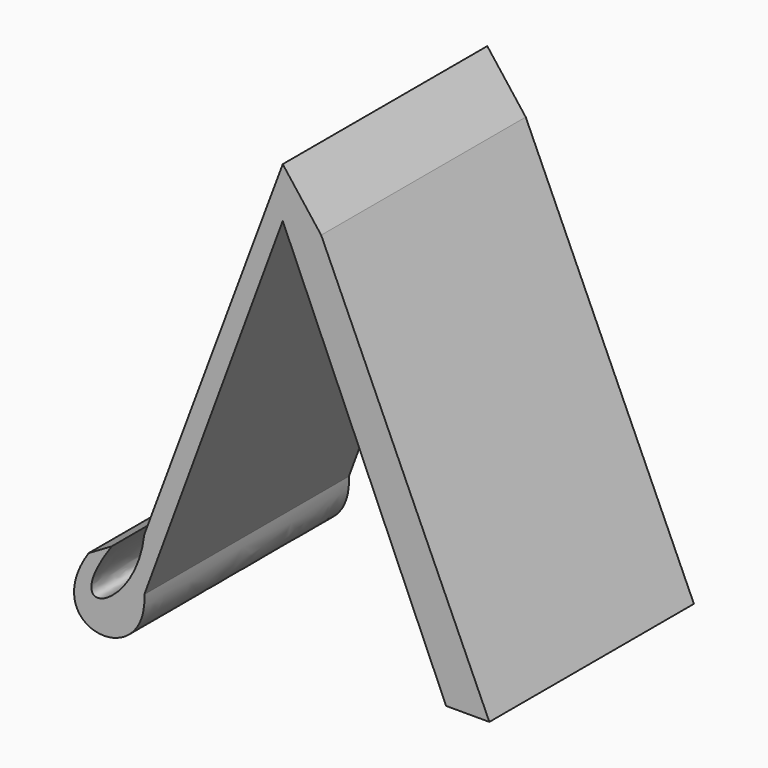
from build123d import *

# Parameters (mm, degrees)
F1_DEPTH = 25.4


with BuildPart() as f1:
    # F0 (on Front) → F1 (new body)
    with BuildSketch(Plane.XZ):
        with BuildLine():
            add(Edge.make_bspline(
                [(-34.276359, 0), (-33.894449, -7.351754), (-45.160774, -6.206027), (-39.814044, 1.814069)],
                knots=[0, 0, 0, 0, 5.827247, 5.827247, 5.827247, 5.827247], degree=3))
            Line((-34.276359, 0), (-20.527625, 37.140679))
            Line((-20.527625, 37.140679), (-4.29648, 0))
            Line((-4.29648, 0), (0, 0))
            Line((0, 0), (-16.708532, 37.140679))
            Line((-16.708532, 37.140679), (-20.527625, 42.105503))
            Line((-20.527625, 42.105503), (-34.276359, 5.251253))
            add(Edge.make_bspline(
                [(-34.276359, 5.251253), (-35.128215, -2.313327), (-43.216466, -4.939518), (-37.522588, 3.150752)],
                knots=[0, 0, 0, 0, 3.866537, 3.866537, 3.866537, 3.866537], degree=3))
            Line((-37.522588, 3.150752), (-39.814044, 1.814069))
        make_face()
    extrude(amount=F1_DEPTH)


solid = f1.part
